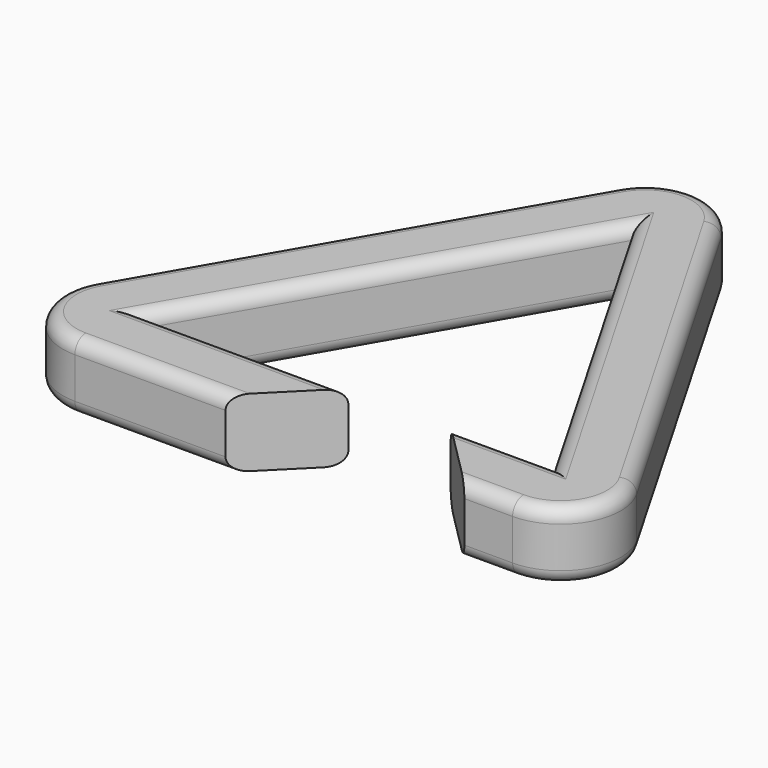
from build123d import *

# Parameters (mm, degrees)
F1_DEPTH = 6.35
F2_R     = 5.588
F3_R     = 1.27


with BuildPart() as f1:
    # F0 (on Top) → F1 (new body)
    with BuildSketch(Plane.XY):
        Polygon((0, 45.695568), (-30.048523, -6.35), (-6.35, -6.35), (0, 0), (-19.05, 0), (0, 32.995568), (19.05, 0), (9.525, 0), (15.875, -6.35), (30.048523, -6.35), align=None)
    extrude(amount=F1_DEPTH)

    # F2
    f2_edges = [f1.edges().sort_by_distance(p)[0] for p in [
        (0, 45.695568, 3.175),
        (-30.048523, -6.35, 3.175),
        (30.048523, -6.35, 3.175),
    ]]
    fillet(f2_edges, radius=F2_R)

    # F3
    f3_edges = [f1.edges().sort_by_distance(p)[0] for p in [
        (-15.024261, 19.672784, 6.35),
        (-15.024261, 19.672784, 0),
        (-9.525, 16.497784, 0),
        (9.525, 16.497784, 0),
        (14.2875, 0, 0),
        (-9.525, 0, 0),
        (9.525, 16.497784, 6.35),
        (-9.525, 16.497784, 6.35),
        (14.2875, 0, 6.35),
        (-9.525, 0, 6.35),
    ]]
    fillet(f3_edges, radius=F3_R)


solid = f1.part
